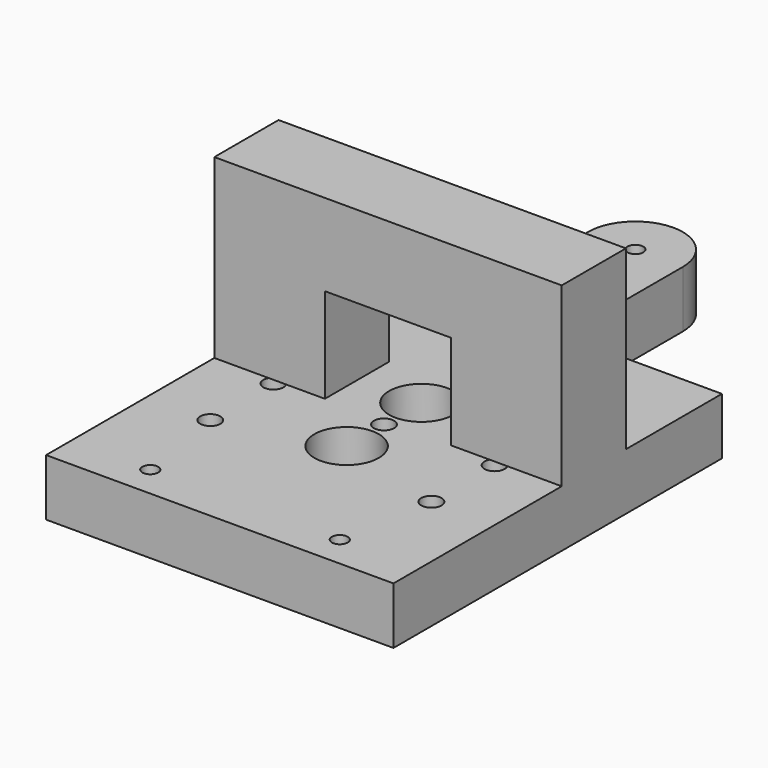
from build123d import *

# Parameters (mm, degrees)
SKETCH_R             = 1.25
SKETCH_R_2           = 1.6
PAD_DEPTH            = 9
SKETCH002_W          = 55
SKETCH002_H          = 12.7
PAD001_DEPTH         = 28
SKETCH003_W          = 20
SKETCH003_H          = 15
POCKET001_DEPTH      = 63.501
POCKET001_DEPTH_BACK = 32.501
SKETCH001_R          = 5.1
POCKET_DEPTH         = 8


with BuildPart() as part:
    # Sketch → Pad (new body)
    with BuildSketch(Plane.XY):
        with BuildLine():
            Line((-27.5, 32.5), (-12.5, 32.5))
            Line((-12.5, 32.5), (-12.5, 56))
            ThreePointArc((2.5, 56), (-5, 63.5), (-12.5, 56))
            Line((2.5, 56), (2.5, 32.5))
            Line((2.5, 32.5), (27.5, 32.5))
            Line((27.5, 32.5), (27.5, -32.5))
            Line((27.5, -32.5), (-27.5, -32.5))
            Line((-27.5, -32.5), (-27.5, 32.5))
        make_face()
        with Locations((-15, -27.5)):
            Circle(SKETCH_R, mode=Mode.SUBTRACT)
        with Locations((15, -27.5)):
            Circle(SKETCH_R, mode=Mode.SUBTRACT)
        with Locations((-5, 56)):
            Circle(SKETCH_R, mode=Mode.SUBTRACT)
        with Locations((-17.5, 12.5)):
            Circle(SKETCH_R_2, mode=Mode.SUBTRACT)
        with Locations((-17.5, -12.5)):
            Circle(SKETCH_R_2, mode=Mode.SUBTRACT)
        with Locations((17.5, 12.5)):
            Circle(SKETCH_R_2, mode=Mode.SUBTRACT)
        with Locations((17.5, -12.5)):
            Circle(SKETCH_R_2, mode=Mode.SUBTRACT)
        Circle(SKETCH_R_2, mode=Mode.SUBTRACT)
        with Locations((-17.5, 0)):
            Circle(SKETCH_R_2, mode=Mode.SUBTRACT)
        with Locations((17.5, 0)):
            Circle(SKETCH_R_2, mode=Mode.SUBTRACT)
        with BuildLine():
            ThreePointArc((-2.5, 47), (-5, 49.5), (-7.5, 47))
            Line((-7.5, 47), (-7.5, 35))
            ThreePointArc((-7.5, 35), (-5, 32.5), (-2.5, 35))
            Line((-2.5, 47), (-2.5, 35))
        make_face(mode=Mode.SUBTRACT)
    extrude(amount=-PAD_DEPTH)

    # Sketch002 → Pad001 (join)
    with BuildSketch(Plane.XY):
        with Locations((0, 7.15)):
            Rectangle(SKETCH002_W, SKETCH002_H)
    extrude(amount=PAD001_DEPTH)

    # Sketch003 → Pocket001 (cut, two sides)
    with BuildSketch(Plane.XZ) as pocket001_sk:
        with Locations((0, 7.5)):
            Rectangle(SKETCH003_W, SKETCH003_H)
    extrude(amount=-POCKET001_DEPTH, mode=Mode.SUBTRACT)
    extrude(pocket001_sk.sketch, amount=POCKET001_DEPTH_BACK, mode=Mode.SUBTRACT)

    # Sketch001 → Pocket (cut)
    with BuildSketch(Plane.XY):
        with Locations((0, 7.4)):
            Circle(SKETCH001_R)
        with Locations((0, -7.4)):
            Circle(SKETCH001_R)
    extrude(amount=-POCKET_DEPTH, mode=Mode.SUBTRACT)


solid = part.part
